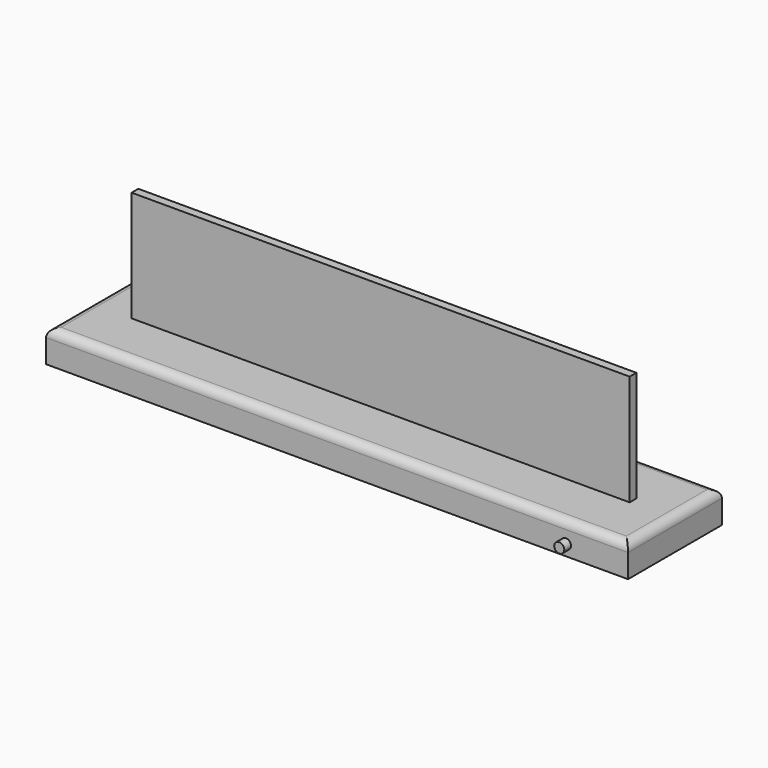
from build123d import *

# Parameters (mm, degrees)
F2_DEPTH  = 2.5
F3_W      = 347
F3_H      = 70
F4_DEPTH  = 19
F5_W      = 277
F5_H      = 12
F6_DEPTH  = 15
F7_R      = 5
F11_DEPTH = 40
F13_W     = 277
F13_H     = 12
F14_DEPTH = 8


with BuildPart() as f2:
    # F1 (on Front) → F2 (new body, symmetric)
    with BuildSketch(Plane.XZ):
        Polygon((-148.5, 16), (0, 16), (148.5, 16), (148.5, 91), (-148.5, 91), align=None)
    extrude(amount=F2_DEPTH, both=True)


with BuildPart() as f4:
    # F3 (on Top) → F4 (new body)
    with BuildSketch(Plane.XY):
        Rectangle(F3_W, F3_H)
    extrude(amount=F4_DEPTH)

    # F7
    f7_edges = [f4.edges().sort_by_distance(p)[0] for p in [
        (0, -35, 19),
        (-173.5, 0, 19),
        (173.5, 0, 19),
        (0, 35, 19),
    ]]
    fillet(f7_edges, radius=F7_R)


with BuildPart() as f6:
    # F5 (on Top) → F6 (new body)
    with BuildSketch(Plane.XY):
        Rectangle(F5_W, F5_H)
    extrude(amount=F6_DEPTH)


with BuildPart() as f2_1:
    # F8: moved
    add(f2.part.moved(Location((0, 0, -6))))


with BuildPart() as f4_1:
    add(f4.part)

    # F9: cut F2, F6
    add(f2_1.part, mode=Mode.SUBTRACT)
    add(f6.part, mode=Mode.SUBTRACT)


with BuildPart() as f11:
    # F10 (on Front) → F11 (new body)
    with BuildSketch(Plane.XZ):
        with BuildLine():
            ThreePointArc((133.5, 6.5), (136.5, 3.5), (139.5, 6.5))
            ThreePointArc((139.5, 6.5), (136.5, 9.5), (133.5, 6.5))
        make_face()
    extrude(amount=F11_DEPTH)


with BuildPart() as f4_2:
    add(f4_1.part)

    # F12: cut F11
    add(f11.part, mode=Mode.SUBTRACT)


with BuildPart() as f14:
    # F13 (on Top) → F14 (new body)
    with BuildSketch(Plane.XY):
        Rectangle(F13_W, F13_H)
    extrude(amount=F14_DEPTH)


solid = Compound([f6.part, f2_1.part, f11.part, f4_2.part, f14.part])
